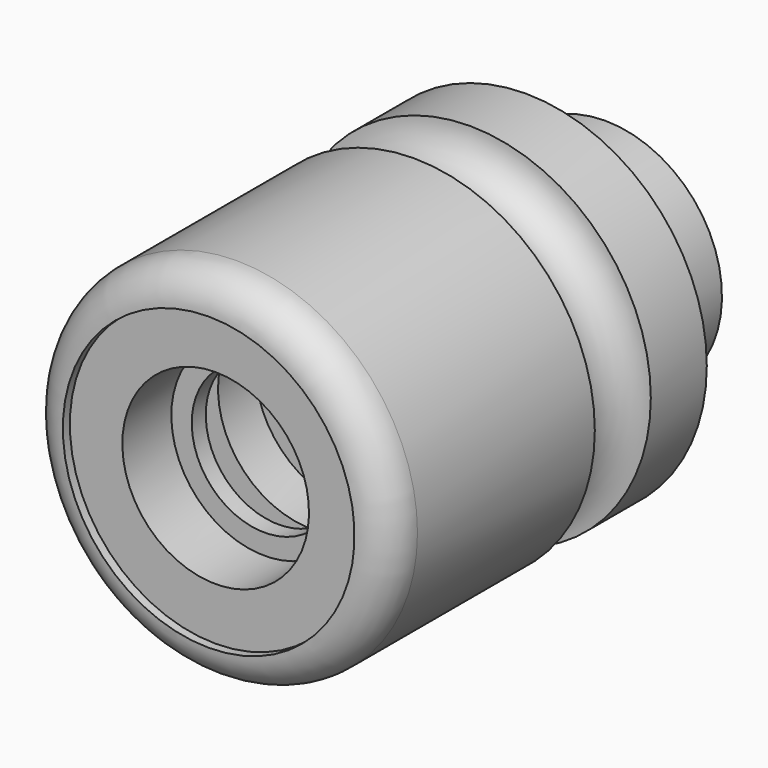
from build123d import *


with BuildPart() as f1:
    # F0 (on Right) → F1 (revolve)
    with BuildSketch(Plane.YZ):
        with BuildLine():
            Line((44, 31), (6, 31))
            ThreePointArc((6, 31), (1.757359, 29.242641), (0, 25))
            Line((0, 25), (1.5, 25))
            Line((1.5, 25), (1.5, 16))
            Line((1.5, 16), (12, 16))
            Line((12, 16), (12, 12.5))
            Line((12, 12.5), (15, 12.5))
            Line((15, 12.5), (15, 20.5))
            Line((15, 20.5), (22, 20.5))
            Line((22, 20.5), (22, 16))
            Line((22, 16), (30, 16))
            Line((30, 16), (30, 6))
            Line((30, 6), (88, 6))
            Line((88, 6), (88, 16))
            Line((88, 16), (85, 16))
            Line((85, 16), (85, 20))
            Line((85, 20), (68, 20))
            Line((68, 20), (68, 31))
            Line((68, 31), (56, 31))
            ThreePointArc((56, 31), (50, 24.974378), (44, 31))
        make_face()
    revolve(axis=Axis((0, 44, 0), (0, 1, 0)))


solid = f1.part
